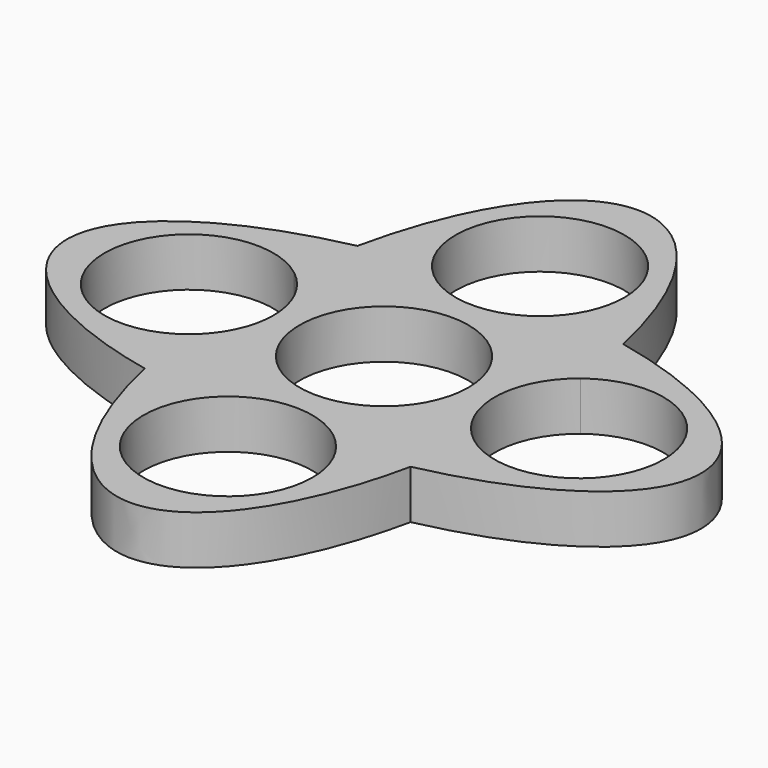
from build123d import *

# Parameters (mm, degrees)
F0_R     = 10.9982
F1_DEPTH = 25.4
F2_DEPTH = 19.05


with BuildPart() as f1:
    # F0 (on Top) → F1 (new body)
    with BuildSketch(Plane.XY):
        with BuildLine():
            add(Edge.make_bspline(
                [(17.2966262747, -17.2966262747), (41.275, -12.1888070196), (41.275, 0)],
                knots=[5.144796756, 5.144796756, 5.144796756, 6.2831853072, 6.2831853072, 6.2831853072], degree=2, weights=[1, 0.8423354965, 1]))
            add(Edge.make_bspline(
                [(41.275, 0), (41.275, 12.1888070196), (17.2966262747, 17.2966262747)],
                knots=[0, 0, 0, 1.1383885512, 1.1383885512, 1.1383885512], degree=2, weights=[1, 0.8423354965, 1]))
            add(Edge.make_bspline(
                [(18.6255683012, 8.6641490291), (18.1820471955, 13.1400669524), (17.2966262747, 17.2966262747)],
                knots=[4.9238747078, 4.9238747078, 4.9238747078, 5.144796756, 5.144796756, 5.144796756], degree=2, weights=[1, 0.9939053819, 1]))
            ThreePointArc((18.6255683012, 8.6641490291), (30.2194319442, 9.8860244272), (36.3982, 0))
            ThreePointArc((36.3982, 0), (30.2194319442, -9.8860244272), (18.6255683012, -8.6641490291))
            add(Edge.make_bspline(
                [(17.2966262747, -17.2966262747), (18.1820471955, -13.1400669524), (18.6255683012, -8.6641490291)],
                knots=[4.2799812048, 4.2799812048, 4.2799812048, 4.5009032529, 4.5009032529, 4.5009032529], degree=2, weights=[1, 0.9939053819, 1]))
        make_face()
        with BuildLine():
            add(Edge.make_bspline(
                [(18.6255683012, 8.6641490291), (18.1820471955, 13.1400669524), (17.2966262747, 17.2966262747)],
                knots=[4.9238747078, 4.9238747078, 4.9238747078, 5.144796756, 5.144796756, 5.144796756], degree=2, weights=[1, 0.9939053819, 1]))
            add(Edge.make_bspline(
                [(17.2966262747, 17.2966262747), (13.1400669524, 18.1820471955), (8.6641490291, 18.6255683012)],
                knots=[1.1383885512, 1.1383885512, 1.1383885512, 1.3593105993, 1.3593105993, 1.3593105993], degree=2, weights=[1, 0.9939053819, 1]))
            ThreePointArc((8.6641490291, 18.6255683012), (0, 14.4018), (-8.6641490291, 18.6255683012))
            add(Edge.make_bspline(
                [(-8.6641490291, 18.6255683012), (-13.1400669524, 18.1820471955), (-17.2966262747, 17.2966262747)],
                knots=[1.7822820542, 1.7822820542, 1.7822820542, 2.0032041024, 2.0032041024, 2.0032041024], degree=2, weights=[1, 0.9939053819, 1]))
            add(Edge.make_bspline(
                [(-17.2966262747, 17.2966262747), (-18.1820471955, 13.1400669524), (-18.6255683012, 8.6641490291)],
                knots=[1.1383885512, 1.1383885512, 1.1383885512, 1.3593105993, 1.3593105993, 1.3593105993], degree=2, weights=[1, 0.9939053819, 1]))
            ThreePointArc((-18.6255683012, 8.6641490291), (-15.5139755728, 4.8194319442), (-14.4018, 0))
            ThreePointArc((-14.4018, 0), (-15.5139755728, -4.8194319442), (-18.6255683012, -8.6641490291))
            add(Edge.make_bspline(
                [(-18.6255683012, -8.6641490291), (-18.1820471955, -13.1400669524), (-17.2966262747, -17.2966262747)],
                knots=[1.7822820542, 1.7822820542, 1.7822820542, 2.0032041024, 2.0032041024, 2.0032041024], degree=2, weights=[1, 0.9939053819, 1]))
            add(Edge.make_bspline(
                [(-17.2966262747, -17.2966262747), (-13.1400669524, -18.1820471955), (-8.6641490291, -18.6255683012)],
                knots=[4.2799812048, 4.2799812048, 4.2799812048, 4.5009032529, 4.5009032529, 4.5009032529], degree=2, weights=[1, 0.9939053819, 1]))
            ThreePointArc((-8.6641490291, -18.6255683012), (0, -14.4018), (8.6641490291, -18.6255683012))
            add(Edge.make_bspline(
                [(8.6641490291, -18.6255683012), (13.1400669524, -18.1820471955), (17.2966262747, -17.2966262747)],
                knots=[4.9238747078, 4.9238747078, 4.9238747078, 5.144796756, 5.144796756, 5.144796756], degree=2, weights=[1, 0.9939053819, 1]))
            add(Edge.make_bspline(
                [(17.2966262747, -17.2966262747), (18.1820471955, -13.1400669524), (18.6255683012, -8.6641490291)],
                knots=[4.2799812048, 4.2799812048, 4.2799812048, 4.5009032529, 4.5009032529, 4.5009032529], degree=2, weights=[1, 0.9939053819, 1]))
            ThreePointArc((18.6255683012, -8.6641490291), (14.4018, 0), (18.6255683012, 8.6641490291))
        make_face()
        Circle(F0_R, mode=Mode.SUBTRACT)
        with BuildLine():
            add(Edge.make_bspline(
                [(17.2966262747, 17.2966262747), (13.1400669524, 18.1820471955), (8.6641490291, 18.6255683012)],
                knots=[1.1383885512, 1.1383885512, 1.1383885512, 1.3593105993, 1.3593105993, 1.3593105993], degree=2, weights=[1, 0.9939053819, 1]))
            add(Edge.make_bspline(
                [(17.2966262747, 17.2966262747), (12.1888070196, 41.275), (0, 41.275)],
                knots=[5.144796756, 5.144796756, 5.144796756, 6.2831853072, 6.2831853072, 6.2831853072], degree=2, weights=[1, 0.8423354965, 1]))
            add(Edge.make_bspline(
                [(0, 41.275), (-12.1888070196, 41.275), (-17.2966262747, 17.2966262747)],
                knots=[0, 0, 0, 1.1383885512, 1.1383885512, 1.1383885512], degree=2, weights=[1, 0.8423354965, 1]))
            add(Edge.make_bspline(
                [(-8.6641490291, 18.6255683012), (-13.1400669524, 18.1820471955), (-17.2966262747, 17.2966262747)],
                knots=[1.7822820542, 1.7822820542, 1.7822820542, 2.0032041024, 2.0032041024, 2.0032041024], degree=2, weights=[1, 0.9939053819, 1]))
            ThreePointArc((-8.6641490291, 18.6255683012), (-3.5826219022, 35.7983279207), (10.9982, 25.4))
            ThreePointArc((10.9982, 25.4), (10.3983279207, 21.8173780978), (8.6641490291, 18.6255683012))
        make_face()
        with BuildLine():
            add(Edge.make_bspline(
                [(-17.2966262747, -17.2966262747), (0, -98.4946773978), (17.2966262747, -17.2966262747)],
                knots=[2.0032041024, 2.0032041024, 2.0032041024, 4.2799812048, 4.2799812048, 4.2799812048], degree=2, weights=[1, 0.4190581775, 1]))
            add(Edge.make_bspline(
                [(8.6641490291, -18.6255683012), (13.1400669524, -18.1820471955), (17.2966262747, -17.2966262747)],
                knots=[4.9238747078, 4.9238747078, 4.9238747078, 5.144796756, 5.144796756, 5.144796756], degree=2, weights=[1, 0.9939053819, 1]))
            ThreePointArc((8.6641490291, -18.6255683012), (10.3983279207, -21.8173780978), (10.9982, -25.4))
            ThreePointArc((10.9982, -25.4), (-3.5826219022, -35.7983279207), (-8.6641490291, -18.6255683012))
            add(Edge.make_bspline(
                [(-17.2966262747, -17.2966262747), (-13.1400669524, -18.1820471955), (-8.6641490291, -18.6255683012)],
                knots=[4.2799812048, 4.2799812048, 4.2799812048, 4.5009032529, 4.5009032529, 4.5009032529], degree=2, weights=[1, 0.9939053819, 1]))
        make_face()
        with BuildLine():
            add(Edge.make_bspline(
                [(-17.2966262747, 17.2966262747), (-98.4946773978, 0), (-17.2966262747, -17.2966262747)],
                knots=[2.0032041024, 2.0032041024, 2.0032041024, 4.2799812048, 4.2799812048, 4.2799812048], degree=2, weights=[1, 0.4190581775, 1]))
            add(Edge.make_bspline(
                [(-18.6255683012, -8.6641490291), (-18.1820471955, -13.1400669524), (-17.2966262747, -17.2966262747)],
                knots=[1.7822820542, 1.7822820542, 1.7822820542, 2.0032041024, 2.0032041024, 2.0032041024], degree=2, weights=[1, 0.9939053819, 1]))
            ThreePointArc((-18.6255683012, -8.6641490291), (-36.3982, 0), (-18.6255683012, 8.6641490291))
            add(Edge.make_bspline(
                [(-17.2966262747, 17.2966262747), (-18.1820471955, 13.1400669524), (-18.6255683012, 8.6641490291)],
                knots=[1.1383885512, 1.1383885512, 1.1383885512, 1.3593105993, 1.3593105993, 1.3593105993], degree=2, weights=[1, 0.9939053819, 1]))
        make_face()
    extrude(amount=F1_DEPTH)

    # F2 (cut): a face of the model
    f2_faces = [f1.faces().sort_by_distance(p)[0] for p in [
        (9.5838282566, 32.8935218357, 25.4),
    ]]
    extrude(f2_faces, amount=-F2_DEPTH, mode=Mode.SUBTRACT)


solid = f1.part
